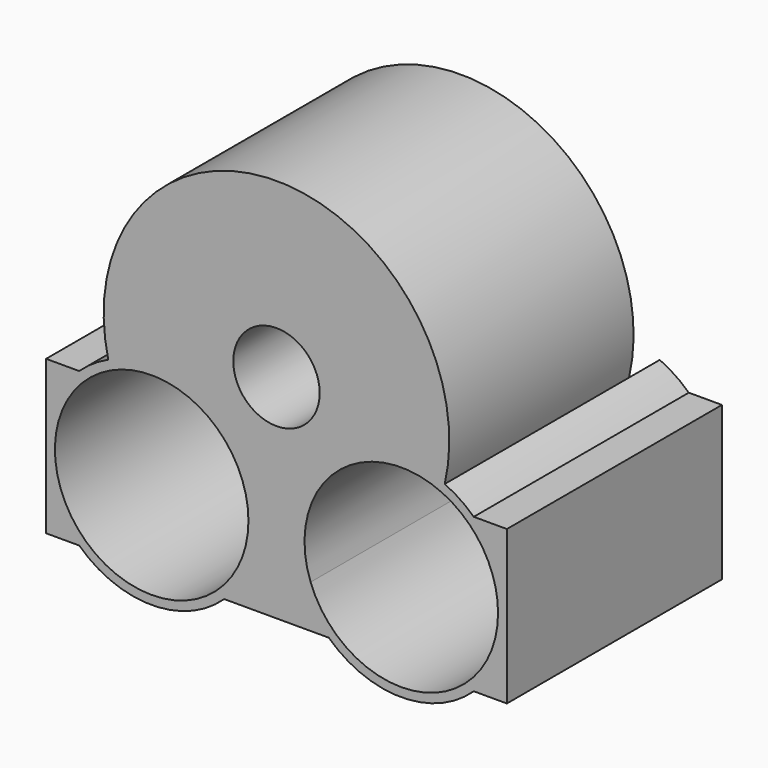
from build123d import *

# Parameters (mm, degrees)
F0_R     = 2.54
F1_DEPTH = 12.7
F2_R     = 14.2875
F3_DEPTH = 76.2


with BuildPart() as f1:
    # F0 (on Front) → F1 (new body)
    with BuildSketch(Plane.XZ):
        with BuildLine():
            Line((0, 50.8), (0, 0))
            Line((0, 0), (10.954276, 0))
            ThreePointArc((10.954276, 0), (34.925, -9.525), (58.895724, 0))
            Line((58.895724, 0), (76.2, 0))
            Line((76.2, 0), (76.2, 13.110851))
            ThreePointArc((76.2, 13.110851), (58.441553, 15.939952), (42.441301, 24.147157))
            ThreePointArc((42.441301, 24.147157), (29.765625, 19.792394), (33.051765, 32.786162))
            ThreePointArc((33.051765, 32.786162), (25.31364, 44.247376), (20.555013, 57.231731))
            ThreePointArc((20.555013, 57.231731), (15.486782, 54.415708), (10.954276, 50.8))
            Line((10.954276, 50.8), (0, 50.8))
        make_face()
        with Locations((56.922045, 12.7)):
            Circle(F0_R, mode=Mode.SUBTRACT)
        with Locations((12.927955, 38.1)):
            Circle(F0_R, mode=Mode.SUBTRACT)
        with BuildLine():
            Line((76.2, 13.110851), (76.2, 0))
            Line((76.2, 0), (93.504276, 0))
            ThreePointArc((93.504276, 0), (117.475, -9.525), (141.445724, 0))
            Line((141.445724, 0), (152.4, 0))
            Line((152.4, 0), (152.4, 50.8))
            Line((152.4, 50.8), (141.445724, 50.8))
            ThreePointArc((141.445724, 50.8), (136.913218, 54.415708), (131.844987, 57.231731))
            ThreePointArc((131.844987, 57.231731), (127.08636, 44.247376), (119.348235, 32.786162))
            ThreePointArc((119.348235, 32.786162), (122.634375, 19.792394), (109.958699, 24.147157))
            ThreePointArc((109.958699, 24.147157), (93.958447, 15.939952), (76.2, 13.110851))
        make_face()
        with Locations((95.477955, 12.7)):
            Circle(F0_R, mode=Mode.SUBTRACT)
        with Locations((139.472045, 38.1)):
            Circle(F0_R, mode=Mode.SUBTRACT)
    extrude(amount=-F1_DEPTH)

    # F2 (on face) → F3 (join)
    with BuildSketch(Plane.XZ):
        with BuildLine():
            ThreePointArc((66.929, 25.4), (66.422356, 19.727915), (64.918467, 14.235415))
            ThreePointArc((64.918467, 14.235415), (70.531278, 13.392687), (76.2, 13.110851))
            ThreePointArc((76.2, 13.110851), (81.868722, 13.392687), (87.481533, 14.235415))
            ThreePointArc((87.481533, 14.235415), (95.805625, 48.951947), (131.0939, 54.361726))
            ThreePointArc((131.0939, 54.361726), (131.488069, 55.791854), (131.844987, 57.231731))
            ThreePointArc((131.844987, 57.231731), (76.2, 127.410851), (20.555013, 57.231731))
            ThreePointArc((20.555013, 57.231731), (20.911931, 55.791854), (21.3061, 54.361726))
            ThreePointArc((21.3061, 54.361726), (52.077212, 52.419579), (66.929, 25.4))
        make_face()
        with Locations((76.2, 70.260851)):
            Circle(F2_R, mode=Mode.SUBTRACT)
        with BuildLine():
            ThreePointArc((76.2, 13.110851), (70.531278, 13.392687), (64.918467, 14.235415))
            ThreePointArc((64.918467, 14.235415), (13.255625, 1.848053), (21.3061, 54.361726))
            ThreePointArc((21.3061, 54.361726), (20.911931, 55.791854), (20.555013, 57.231731))
            ThreePointArc((20.555013, 57.231731), (15.486782, 54.415708), (10.954276, 50.8))
            Line((10.954276, 50.8), (0, 50.8))
            Line((0, 50.8), (0, 0))
            Line((0, 0), (10.954276, 0))
            ThreePointArc((10.954276, 0), (34.925, -9.525), (58.895724, 0))
            Line((58.895724, 0), (76.2, 0))
            Line((76.2, 0), (93.504276, 0))
            ThreePointArc((93.504276, 0), (117.475, -9.525), (141.445724, 0))
            Line((141.445724, 0), (152.4, 0))
            Line((152.4, 0), (152.4, 50.8))
            Line((152.4, 50.8), (141.445724, 50.8))
            ThreePointArc((141.445724, 50.8), (136.913218, 54.415708), (131.844987, 57.231731))
            ThreePointArc((131.844987, 57.231731), (131.488069, 55.791854), (131.0939, 54.361726))
            ThreePointArc((131.0939, 54.361726), (144.494579, 42.552212), (149.479, 25.4))
            ThreePointArc((149.479, 25.4), (123.147085, -6.097356), (87.481533, 14.235415))
            ThreePointArc((87.481533, 14.235415), (81.868722, 13.392687), (76.2, 13.110851))
        make_face()
    extrude(amount=F3_DEPTH)


solid = f1.part
